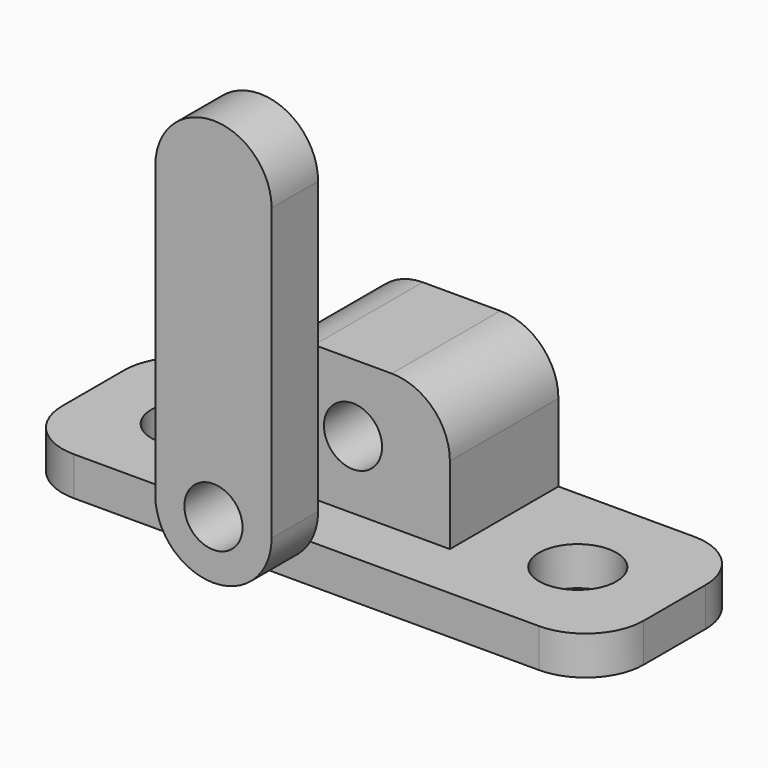
from build123d import *

# Parameters (mm, degrees)
SKETCH_W     = 30
SKETCH_H     = 10
SKETCH_R     = 2
PAD_DEPTH    = 2
SKETCH001_W  = 10
SKETCH001_H  = 7
PAD001_DEPTH = 7
SKETCH002_R  = 1.5
POCKET_DEPTH = 7.001
FILLET_R     = 3
FILLET001_R  = 3
SKETCH003_R  = 1.5
PAD002_DEPTH = 3


with BuildPart() as obj1:
    # Sketch → Pad (new body)
    with BuildSketch(Plane.XY):
        with Locations((15, 5)):
            Rectangle(SKETCH_W, SKETCH_H)
        with Locations((5, 5)):
            Circle(SKETCH_R, mode=Mode.SUBTRACT)
        with Locations((25, 5)):
            Circle(SKETCH_R, mode=Mode.SUBTRACT)
    extrude(amount=PAD_DEPTH)

    # Sketch001 (on Face8 of Pad) → Pad001 (join)
    with BuildSketch(Plane.XY.offset(2)):
        with Locations((15, 6.5)):
            Rectangle(SKETCH001_W, SKETCH001_H)
    extrude(amount=PAD001_DEPTH)

    # Sketch002 (on Face10 of Pad001) → Pocket (cut, through all)
    with BuildSketch(Plane.XZ.offset(-3)):
        with Locations((15, 5.5)):
            Circle(SKETCH002_R)
    extrude(amount=-POCKET_DEPTH, mode=Mode.SUBTRACT)

    # Fillet
    fillet_edges = [obj1.edges().sort_by_distance(p)[0] for p in [
        (20, 6.5, 9),
        (10, 6.5, 9),
    ]]
    fillet(fillet_edges, radius=FILLET_R)

    # Fillet001
    fillet001_edges = [obj1.edges().sort_by_distance(p)[0] for p in [
        (30, 0, 1),
        (30, 10, 1),
        (0, 0, 1),
        (0, 10, 1),
    ]]
    fillet(fillet001_edges, radius=FILLET001_R)


with BuildPart() as cliprotating:
    # Sketch003 (on Face1 of CopyFillet) → Pad002 (new body)
    with BuildSketch(Plane.XZ.offset(-3)):
        with BuildLine():
            ThreePointArc((-3, 0), (6e-06, -3), (3, 1.2e-05))
            Line((3, 14.999988), (3, 1.2e-05))
            ThreePointArc((3, 14.999988), (6e-06, 18), (-3, 15))
            Line((-3, 15), (-3, 0))
        make_face()
        Circle(SKETCH003_R, mode=Mode.SUBTRACT)
    extrude(amount=PAD002_DEPTH)


with BuildPart() as cliprotating_1:
    # Body001 placement: moved
    add(cliprotating.part.moved(Location((15, -6, 5.5))))


solid = Compound([obj1.part, cliprotating_1.part])
